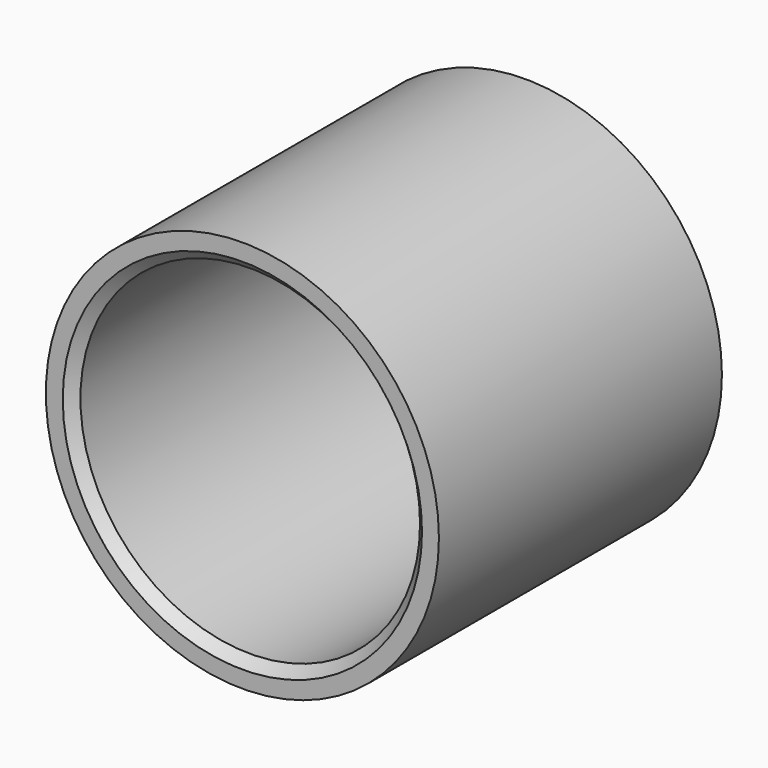
from build123d import *

# Parameters (mm, degrees)
F0_R     = 10
F0_R_2   = 8.64
F1_DEPTH = 18
F2_SIZE  = 0.5


with BuildPart() as f1:
    # F0 (on Front) → F1 (new body)
    with BuildSketch(Plane.XZ):
        Circle(F0_R)
        Circle(F0_R_2, mode=Mode.SUBTRACT)
    extrude(amount=F1_DEPTH)

    # F2
    f2_edges = [f1.edges().sort_by_distance(p)[0] for p in [
        (-8.64, -18, 0),
        (-8.64, 0, 0),
    ]]
    chamfer(f2_edges, length=F2_SIZE)


solid = f1.part
